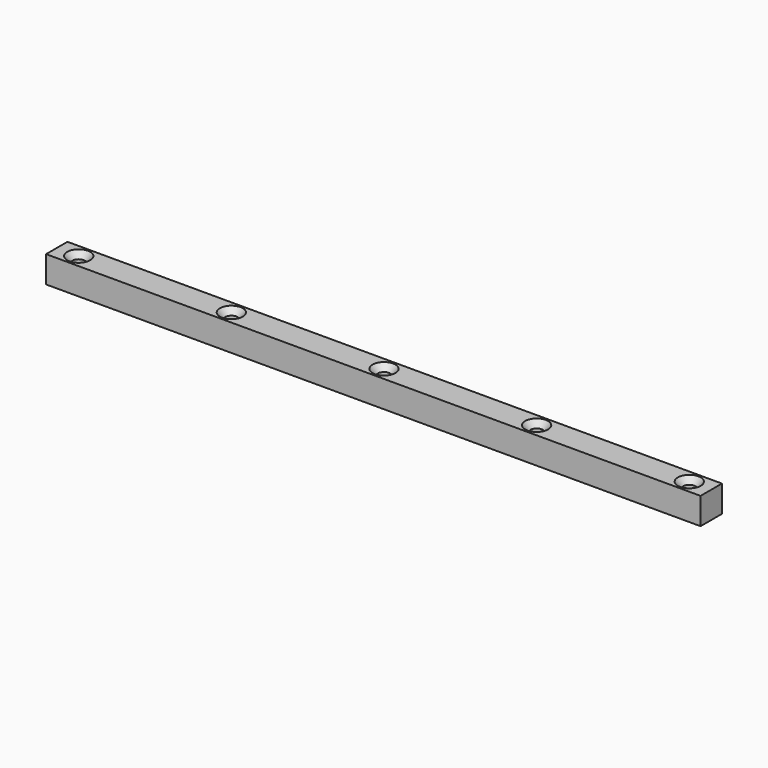
from build123d import *

# Parameters (mm, degrees)
F0_W           = 44.45
F0_H           = 44.45
F1_DEPTH       = 544.5125
F3_D           = 20.6375
F3_CSINK_D     = 38.1
F3_CSINK_ANGLE = 82


with BuildPart() as f1:
    # F0 (on Right) → F1 (new body, symmetric)
    with BuildSketch(Plane.YZ):
        with Locations((0, 22.225)):
            Rectangle(F0_W, F0_H)
    extrude(amount=F1_DEPTH, both=True)

    # F3 (through all)
    with Locations(Plane.XY.offset(44.45)):
        with Locations((-508, 0), (-254, 0), (0, 0), (254, 0), (508, 0)):
            CounterSinkHole(F3_D / 2, F3_CSINK_D / 2, counter_sink_angle=F3_CSINK_ANGLE)


solid = f1.part
